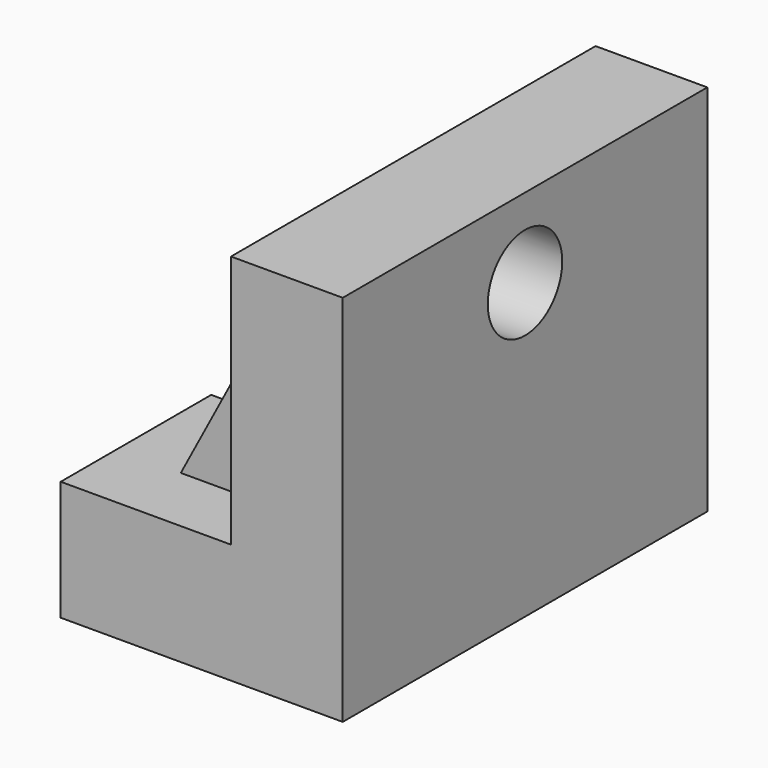
from build123d import *

# Parameters (mm, degrees)
F1_DEPTH = 38.1
F3_DEPTH = 20.0212036649
F4_R     = 7.7843142667
F5_DEPTH = 18.6865234206
F6_W     = 11.211249046
F6_H     = 24.7816201299
F7_DEPTH = 17.78
F9_DEPTH = 64.4604500721


with BuildPart() as f1:
    # F0 (on Front) → F1 (new body, symmetric)
    with BuildSketch(Plane.XZ):
        Polygon((-47.158703208, 0), (0, 0), (0, 62.4333769083), (-18.6855234206, 62.4333769083), (-18.6855234206, 20.0202036649), (-47.158703208, 20.0202036649), align=None)
    extrude(amount=F1_DEPTH, both=True)

    # F2 (on face) → F3 (cut, through all)
    with BuildSketch(Plane.XY.offset(20.0202036649)):
        with BuildLine():
            ThreePointArc((-34.4997271895, -6.6411241547), (-29.803743265, -4.6959839245), (-27.8586030348, 0))
            ThreePointArc((-27.8586030348, 0), (-29.5227705126, 4.3970936167), (-33.6812414386, 6.5904939962))
            Line((-33.6812414386, 6.5904939962), (-35.3182129404, 6.5904939962))
            ThreePointArc((-35.3182129404, 6.5904939962), (-41.1281817194, -0.4100251021), (-34.4997271895, -6.6411241547))
        make_face()
        with BuildLine():
            Line((-35.3182129404, 6.5904939962), (-33.6812414386, 6.5904939962))
            ThreePointArc((-33.6812414386, 6.5904939962), (-34.4997271895, 6.6411241547), (-35.3182129404, 6.5904939962))
        make_face()
        with BuildLine():
            Line((-47.158703208, -6.6411241547), (-34.4997271895, -6.6411241547))
            ThreePointArc((-34.4997271895, -6.6411241547), (-41.1281817194, -0.4100251021), (-35.3182129404, 6.5904939962))
            Line((-35.3182129404, 6.5904939962), (-47.158703208, 6.5904939962))
            Line((-47.158703208, 6.5904939962), (-47.158703208, -6.6411241547))
        make_face()
    extrude(amount=-F3_DEPTH, mode=Mode.SUBTRACT)

    # F4 (on face) → F5 (cut, through all)
    with BuildSketch(Plane(origin=(-18.6855234206, 0, 0), x_dir=(0, -1, 0), z_dir=(-1, 0, 0))):
        with Locations((0, 49.1617955267)):
            Circle(F4_R)
    extrude(amount=-F5_DEPTH, mode=Mode.SUBTRACT)

    # F6 (on face) → F7 (join)
    with BuildSketch(Plane(origin=(-18.6855234206, 0, 0), x_dir=(0, -1, 0), z_dir=(-1, 0, 0))):
        with Locations((20.753825549, 32.4110137299)):
            Rectangle(F6_W, F6_H)
    extrude(amount=F7_DEPTH)

    # F8 (on face) → F9 (cut, through all)
    with BuildSketch(Plane.XZ.offset(26.3594500721)):
        Polygon((-36.4655234206, 20.0202036649), (-23.347850889, 44.8018237948), (-36.4655234206, 44.8018237948), align=None)
    extrude(amount=-F9_DEPTH, mode=Mode.SUBTRACT)


solid = f1.part
